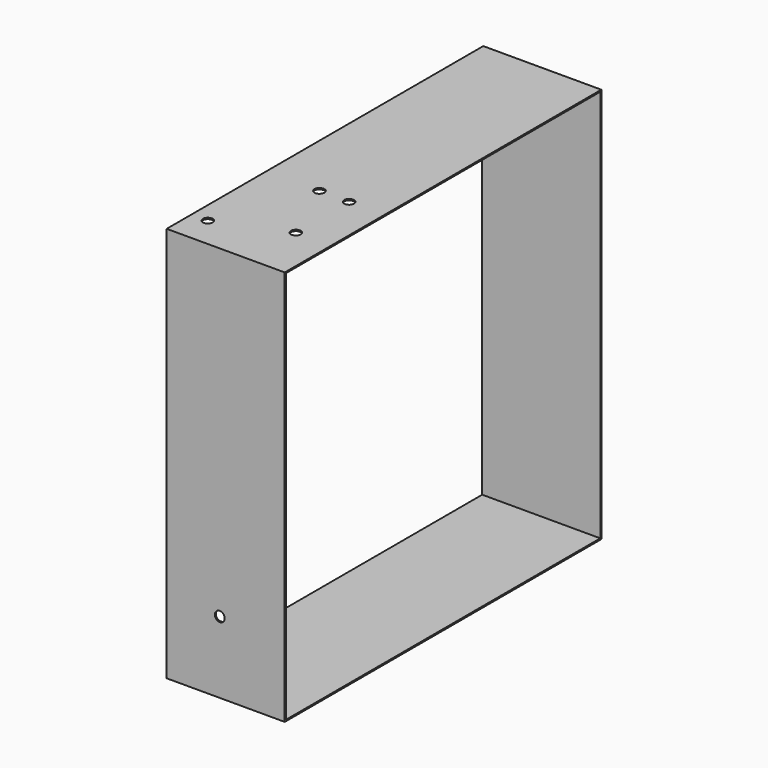
from build123d import *

# Parameters (mm, degrees)
F0_W     = 600
F0_H     = 600
F0_W_2   = 596
F0_H_2   = 596
F1_DEPTH = 179
F2_R     = 7.5
F3_DEPTH = 25
F4_R     = 7.5
F5_DEPTH = 25


with BuildPart() as f1:
    # F0 (on Right) → F1 (new body)
    with BuildSketch(Plane.YZ):
        with Locations((107.142857, 0.014796)):
            Rectangle(F0_W, F0_H)
        with Locations((107.142857, 0.014796)):
            Rectangle(F0_W_2, F0_H_2, mode=Mode.SUBTRACT)
    extrude(amount=F1_DEPTH)

    # F2 (on face) → F3 (cut)
    with BuildSketch(Plane.XY.offset(300.014796)):
        with Locations((25, -145.957143)):
            Circle(F2_R)
        with Locations((80.5, -3.957143)):
            Circle(F2_R)
        with Locations((125.5, -3.957143)):
            Circle(F2_R)
        with Locations((125.5, -104.857143)):
            Circle(F2_R)
    extrude(amount=-F3_DEPTH, mode=Mode.SUBTRACT)

    # F4 (on face) → F5 (cut)
    with BuildSketch(Plane.XZ.offset(192.857143)):
        with Locations((80.5, -191.285204)):
            Circle(F4_R)
    extrude(amount=-F5_DEPTH, mode=Mode.SUBTRACT)


solid = f1.part
